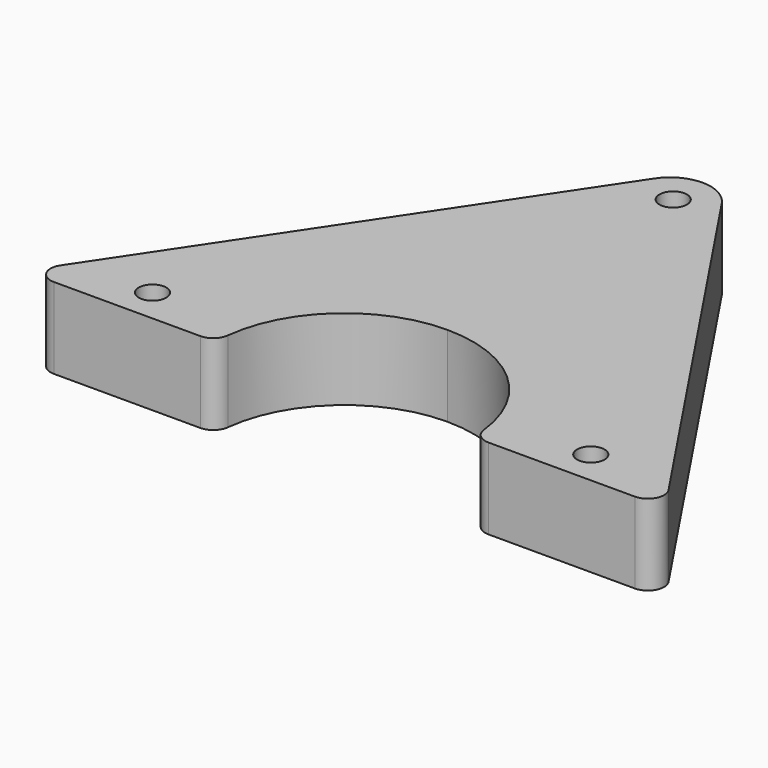
from build123d import *

# Parameters (mm, degrees)
F0_R     = 4.25
F1_DEPTH = 25
F2_R     = 12.507492
F3_R     = 5


with BuildPart() as f1:
    # F0 (on Top) → F1 (new body)
    with BuildSketch(Plane.XY):
        with BuildLine():
            Line((0, 93.520519), (-99.141695, -54.804042))
            Line((-99.141695, -54.804042), (-39.790552, -54.804042))
            ThreePointArc((-39.790552, -54.804042), (-28.136169, -26.667873), (0, -15.01349))
            ThreePointArc((0, -15.01349), (28.136169, -26.667873), (39.790552, -54.804042))
            Line((39.790552, -54.804042), (99.141695, -54.804042))
            Line((99.141695, -54.804042), (0, 93.520519))
        make_face()
        with Locations((-67.721896, -44.267751)):
            Circle(F0_R, mode=Mode.SUBTRACT)
        with Locations((67.721896, -44.267751)):
            Circle(F0_R, mode=Mode.SUBTRACT)
        with Locations((0, 72.195958)):
            Circle(F0_R, mode=Mode.SUBTRACT)
    extrude(amount=F1_DEPTH)

    # F2
    f2_edges = [f1.edges().sort_by_distance(p)[0] for p in [
        (0, 93.520519, 12.5),
    ]]
    fillet(f2_edges, radius=F2_R)

    # F3
    f3_edges = [f1.edges().sort_by_distance(p)[0] for p in [
        (-39.790552, -54.804042, 12.5),
        (39.790552, -54.804042, 12.5),
        (99.141695, -54.804042, 12.5),
        (-99.141695, -54.804042, 12.5),
    ]]
    fillet(f3_edges, radius=F3_R)


solid = f1.part
